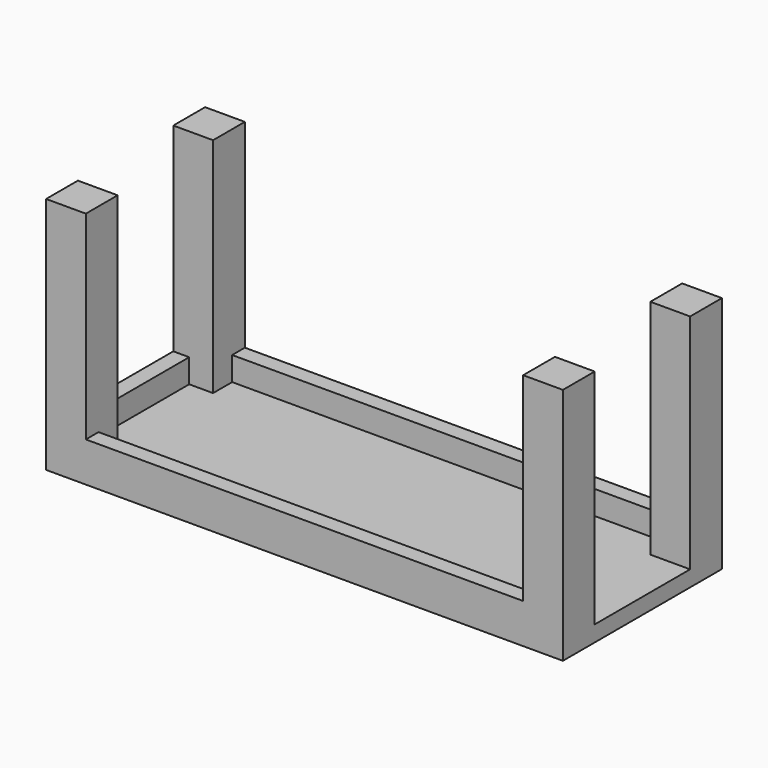
from build123d import *

# Parameters (mm, degrees)
SKETCH_W                = 1300
SKETCH_H                = 500
PAD_DEPTH               = 40
SKETCH001_W             = 100
SKETCH001_H             = 100
PAD001_DEPTH            = 560
SKETCH001_MIRRORED_2_W  = 100
SKETCH001_MIRRORED_2_H  = 100
PAD001_MIRRORED_2_DEPTH = 560
SKETCH002_W             = 1100
SKETCH002_H             = 40
PAD002_DEPTH            = 60
SKETCH003_W             = 40
SKETCH003_H             = 300
PAD003_DEPTH            = 60


with BuildPart() as part:
    # Sketch → Pad (new body)
    with BuildSketch(Plane.XY):
        Rectangle(SKETCH_W, SKETCH_H)
    extrude(amount=PAD_DEPTH)

    # Sketch001 → Pad001 (join)
    with BuildSketch(Plane.XY.offset(40)):
        with Locations((-600, 200)):
            Rectangle(SKETCH001_W, SKETCH001_H)
    pad001 = extrude(amount=PAD001_DEPTH)

    # Sketch001 Mirrored 2 → Pad001 Mirrored 2 (add)
    with BuildSketch(Plane(origin=(0, 0, 40), x_dir=(-1, 0, 0), z_dir=(0, 0, -1))):
        with Locations((-600, 200)):
            Rectangle(SKETCH001_MIRRORED_2_W, SKETCH001_MIRRORED_2_H)
    pad001_mirrored_2 = extrude(amount=-PAD001_MIRRORED_2_DEPTH)

    # Mirrored001: Pad001, Pad001 Mirrored 2 across Sketch001 H_Axis
    add(pad001.mirror(Plane(origin=(0, 0, 40), x_dir=(0, 0, 1), z_dir=(0, 1, 0))))
    add(pad001_mirrored_2.mirror(Plane(origin=(0, 0, 40), x_dir=(0, 0, 1), z_dir=(0, 1, 0))))

    # Sketch002 → Pad002 (join)
    with BuildSketch(Plane.XY.offset(40)):
        with Locations((0, 230)):
            Rectangle(SKETCH002_W, SKETCH002_H)
    pad002 = extrude(amount=PAD002_DEPTH)

    # Sketch003 → Pad003 (join)
    with BuildSketch(Plane.XY.offset(40)):
        with Locations((-630, 0)):
            Rectangle(SKETCH003_W, SKETCH003_H)
    extrude(amount=PAD003_DEPTH)

    # Mirrored003: Pad002 across Sketch002 H_Axis
    add(pad002.mirror(Plane(origin=(0, 0, 40), x_dir=(0, 0, 1), z_dir=(0, 1, 0))))


solid = part.part
